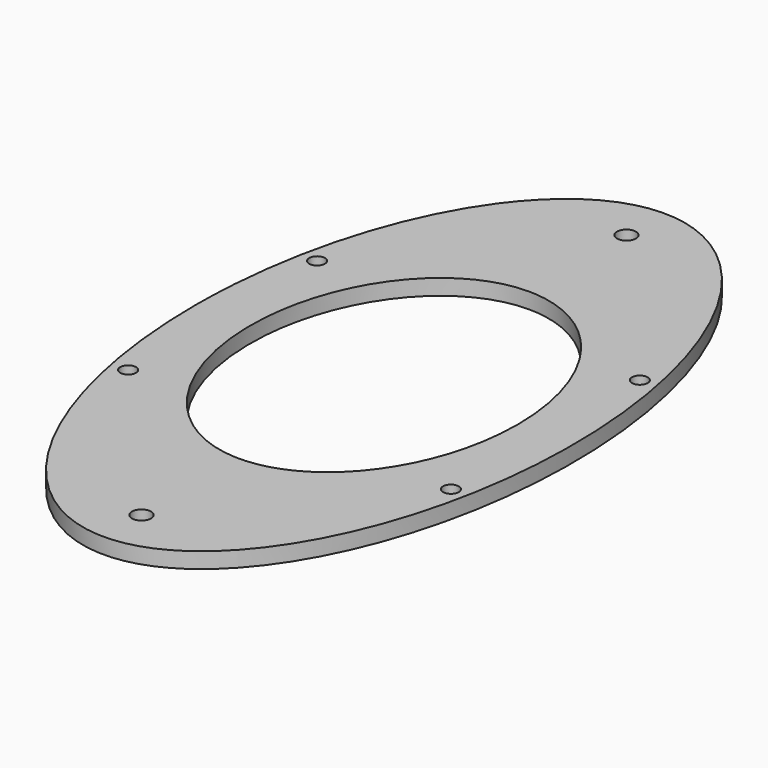
from build123d import *

# Parameters (mm, degrees)
F0_R     = 5
F0_R_2   = 6
F1_DEPTH = 10


with BuildPart() as f1:
    # F0 (on Top) → F1 (new body)
    with BuildSketch(Plane.XY):
        with BuildLine():
            add(Edge.make_bspline(
                [(-120, 0), (-120, -385.381305), (60, -192.690652), (240, 0), (60, 192.690652), (-120, 385.381305), (-120, 0)],
                knots=[4.712389, 4.712389, 4.712389, 6.806784, 6.806784, 8.901179, 8.901179, 10.995574, 10.995574, 10.995574], degree=2, weights=[1, 0.5, 1, 0.5, 1, 0.5, 1]))
        make_face()
        with Locations((-102.5, -75)):
            Circle(F0_R, mode=Mode.SUBTRACT)
        with Locations((0, -192.5)):
            Circle(F0_R_2, mode=Mode.SUBTRACT)
        with Locations((102.5, -75)):
            Circle(F0_R, mode=Mode.SUBTRACT)
        with Locations((-102.5, 75)):
            Circle(F0_R, mode=Mode.SUBTRACT)
        with BuildLine():
            add(Edge.make_bspline(
                [(0, 115), (-147.224319, 115), (-73.612159, -57.5), (0, -230), (73.612159, -57.5), (147.224319, 115), (0, 115)],
                knots=[0, 0, 0, 2.094395, 2.094395, 4.18879, 4.18879, 6.283185, 6.283185, 6.283185], degree=2, weights=[1, 0.5, 1, 0.5, 1, 0.5, 1]))
        make_face(mode=Mode.SUBTRACT)
        with Locations((102.5, 75)):
            Circle(F0_R, mode=Mode.SUBTRACT)
        with Locations((0, 192.5)):
            Circle(F0_R_2, mode=Mode.SUBTRACT)
    extrude(amount=F1_DEPTH)


solid = f1.part
